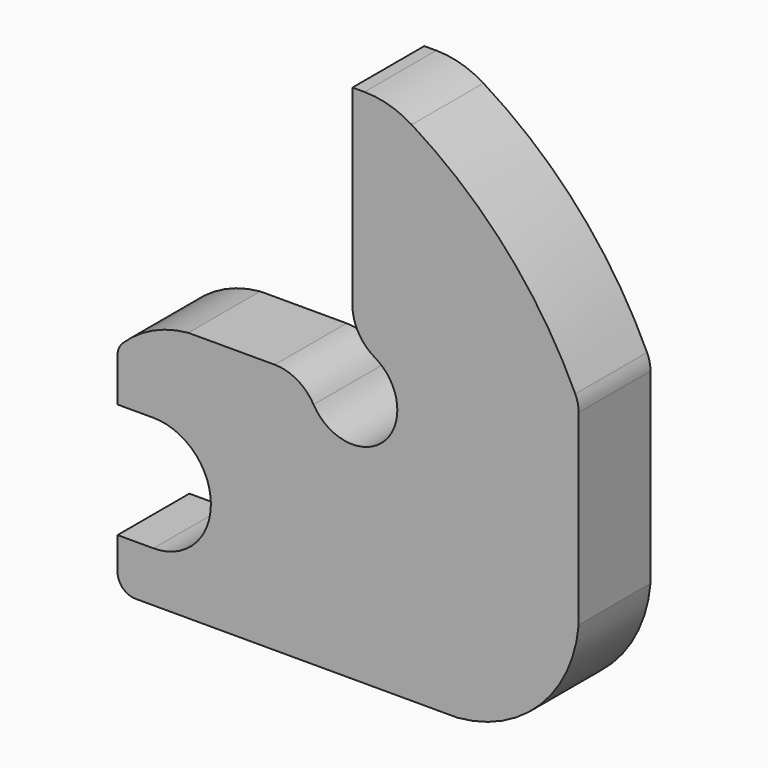
from build123d import *

# Parameters (mm, degrees)
F1_DEPTH = 25
F2_R     = 12.5
F3_R     = 12.5
F4_R     = 25
F5_R     = 5
F6_R     = 5
F7_R     = 10


with BuildPart() as f1:
    # F0 (on Front) → F1 (new body)
    with BuildSketch(Plane.XZ):
        with BuildLine():
            Line((25.221193, 0), (19.72456, 0))
            ThreePointArc((19.72456, 0), (8.907216, -3.116178), (0, -10))
            Line((0, -10), (0, -24))
            Line((0, -24), (10, -24))
            ThreePointArc((10, -24), (21.313708, -28.686292), (26, -40))
            ThreePointArc((26, -40), (21.313708, -51.313708), (10, -56))
            Line((10, -56), (0, -56))
            Line((0, -56), (0, -70))
            Line((0, -70), (88.427416, -70))
            Line((88.427416, -70), (94.69316, -70))
            ThreePointArc((94.69316, -70), (117.723239, -59.295823), (128.427416, -36.265744))
            Line((128.427416, -36.265744), (128.427416, -30))
            Line((128.427416, -30), (128.427416, 18))
            ThreePointArc((128.427416, 18), (106.677114, 50.916386), (75.427416, 75))
            Line((75.427416, 75), (65.427416, 75))
            Line((65.427416, 75), (65.427416, 12.5))
            ThreePointArc((65.427416, 12.5), (74.266251, 8.838835), (77.927416, 0))
            ThreePointArc((77.927416, 0), (65.427416, -12.5), (52.927416, 0))
            Line((52.927416, 0), (25.221193, 0))
        make_face()
    extrude(amount=F1_DEPTH)

    # F2
    f2_edges = [f1.edges().sort_by_distance(p)[0] for p in [
        (65.427416, -12.5, 12.5),
    ]]
    fillet(f2_edges, radius=F2_R)

    # F3
    f3_edges = [f1.edges().sort_by_distance(p)[0] for p in [
        (52.927416, -12.5, 0),
    ]]
    fillet(f3_edges, radius=F3_R)

    # F4
    f4_edges = [f1.edges().sort_by_distance(p)[0] for p in [
        (75.427416, -12.5, 75),
    ]]
    fillet(f4_edges, radius=F4_R)

    # F5
    f5_edges = [f1.edges().sort_by_distance(p)[0] for p in [
        (0, -12.5, -10),
    ]]
    fillet(f5_edges, radius=F5_R)

    # F6
    f6_edges = [f1.edges().sort_by_distance(p)[0] for p in [
        (0, -12.5, -70),
    ]]
    fillet(f6_edges, radius=F6_R)

    # F7
    f7_edges = [f1.edges().sort_by_distance(p)[0] for p in [
        (128.427416, -12.5, 18),
    ]]
    fillet(f7_edges, radius=F7_R)


solid = f1.part
